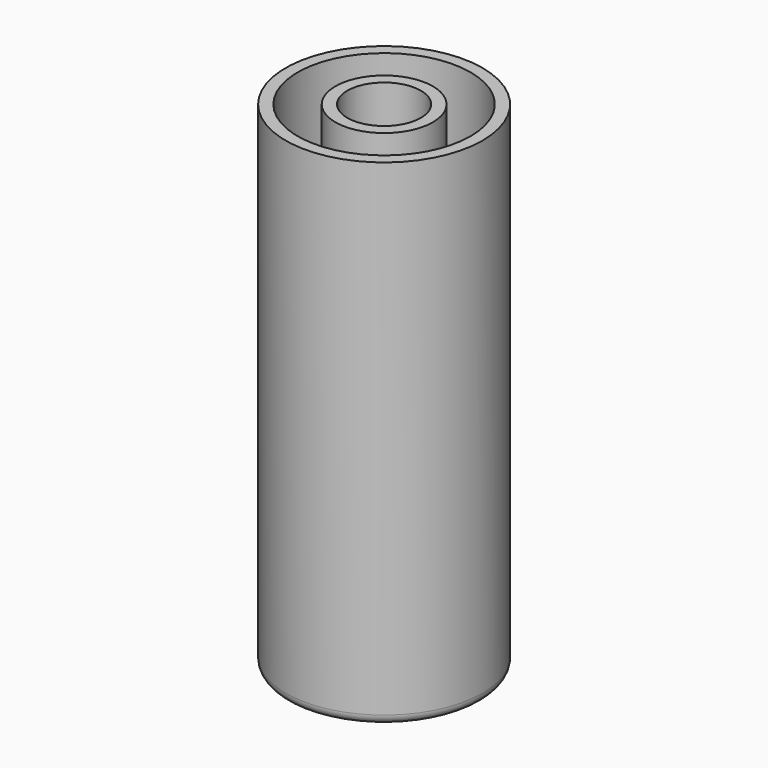
from build123d import *

# Parameters (mm, degrees)
F0_R     = 49.559661
F0_R_2   = 18.538097
F1_DEPTH = 250
F2_R     = 5
F3_T     = -6


with BuildPart() as f1:
    # F0 (on Top) → F1 (new body)
    with BuildSketch(Plane.XY):
        Circle(F0_R)
        Circle(F0_R_2, mode=Mode.SUBTRACT)
    extrude(amount=F1_DEPTH)

    # F2
    f2_edges = [f1.edges().sort_by_distance(p)[0] for p in [
        (-49.559661, 0, 0),
    ]]
    fillet(f2_edges, radius=F2_R)

    # F3
    f3_openings = [f1.faces().sort_by_distance(p)[0] for p in [
        (-48.157902, 0, 250),
    ]]
    offset(amount=F3_T, openings=f3_openings)


solid = f1.part
